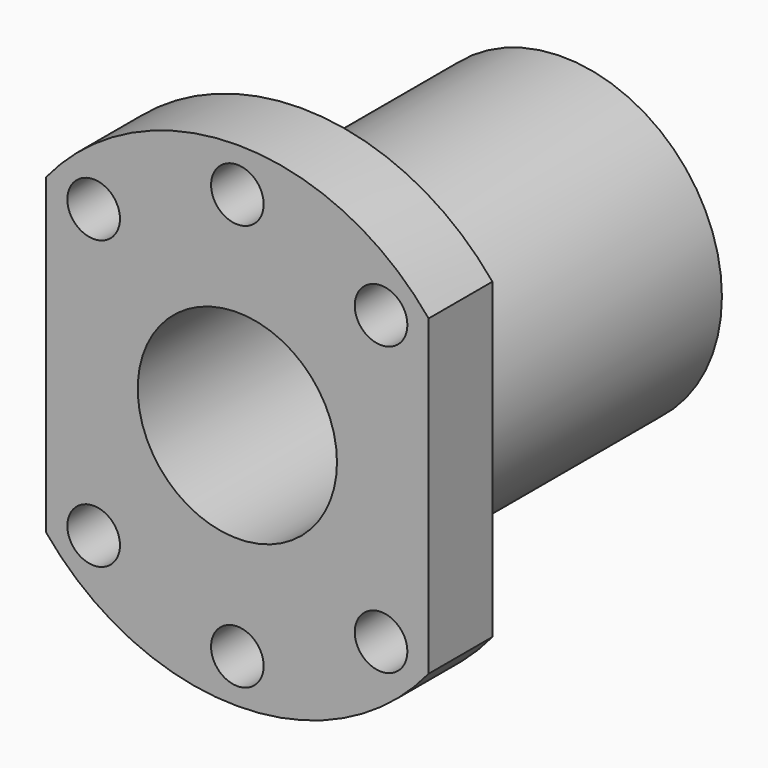
from build123d import *

# Parameters (mm, degrees)
F0_R     = 20
F0_R_2   = 12.5
F1_DEPTH = 51
F2_R     = 20
F2_R_2   = 12.5
F2_R_3   = 3.3
F3_DEPTH = 10


with BuildPart() as f1:
    # F0 (on Front) → F1 (new body)
    with BuildSketch(Plane.XZ):
        Circle(F0_R)
        Circle(F0_R_2, mode=Mode.SUBTRACT)
    extrude(amount=F1_DEPTH)

    # F2 (on face) → F3 (join)
    with BuildSketch(Plane.XZ.offset(51)):
        Circle(F2_R)
        Circle(F2_R_2, mode=Mode.SUBTRACT)
        with BuildLine():
            Line((-24, 19.621417), (-24, -19.621417))
            ThreePointArc((-24, -19.621417), (0, -31), (24, -19.621417))
            Line((24, -19.621417), (24, 19.621417))
            ThreePointArc((24, 19.621417), (0, 31), (-24, 19.621417))
        make_face()
        with Locations((-18.031223, -18.031223)):
            Circle(F2_R_3, mode=Mode.SUBTRACT)
        with Locations((0, -25.5)):
            Circle(F2_R_3, mode=Mode.SUBTRACT)
        with Locations((18.031223, -18.031223)):
            Circle(F2_R_3, mode=Mode.SUBTRACT)
        Circle(F2_R, mode=Mode.SUBTRACT)
        with Locations((-18.031223, 18.031223)):
            Circle(F2_R_3, mode=Mode.SUBTRACT)
        with Locations((0, 25.5)):
            Circle(F2_R_3, mode=Mode.SUBTRACT)
        with Locations((18.031223, 18.031223)):
            Circle(F2_R_3, mode=Mode.SUBTRACT)
    extrude(amount=-F3_DEPTH)


solid = f1.part
